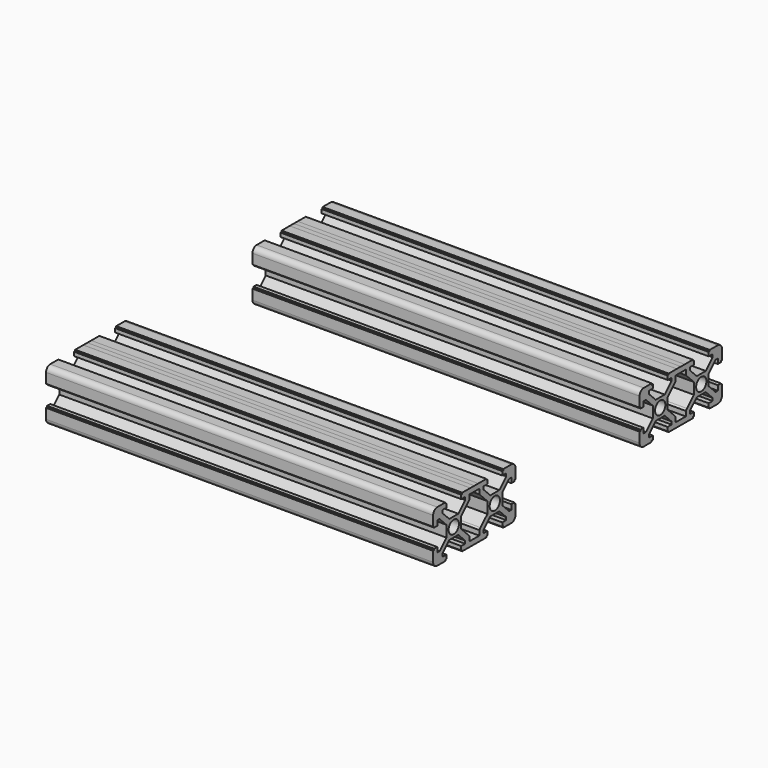
from build123d import *

# Parameters (mm, degrees)
F0_R     = 2.5
F1_DEPTH = 150


with BuildPart() as f1:
    # F0 (on Right) → F1 (new body)
    with BuildSketch(Plane.YZ):
        with BuildLine():
            ThreePointArc((9.657748, 7.399302), (9.074688, 8.818477), (7.657762, 9.406981))
            Line((7.657762, 9.406981), (3.748178, 9.406981))
            Line((3.748178, 9.406981), (3.748178, 8.906981))
            Line((3.748178, 8.906981), (3.248178, 8.906981))
            Line((3.248178, 8.906981), (3.248178, 7.406981))
            Line((3.248178, 7.406981), (5.148178, 7.406981))
            Line((5.148178, 7.406981), (5.148178, 6.321194))
            Line((5.148178, 6.321194), (1.833965, 3.006981))
            Line((1.833965, 3.006981), (-0.351822, 3.006981))
            Line((-0.351822, 3.006981), (-2.537608, 3.006981))
            Line((-2.537608, 3.006981), (-5.851822, 6.321194))
            Line((-5.851822, 6.321194), (-5.851822, 7.406981))
            Line((-5.851822, 7.406981), (-3.951822, 7.406981))
            Line((-3.951822, 7.406981), (-3.951822, 8.906981))
            Line((-3.951822, 8.906981), (-4.451822, 8.906981))
            Line((-4.451822, 8.906981), (-4.451822, 9.406981))
            Line((-4.451822, 9.406981), (-8.351822, 9.406981))
            Line((-8.351822, 9.406981), (-10.239197, 9.419102))
            Line((-10.239197, 9.419102), (-12.203925, 9.43172))
            Line((-12.203925, 9.43172), (-12.229612, 9.431885))
            Line((-12.229612, 9.431885), (-12.739197, 9.431885))
            Line((-12.739197, 9.431885), (-16.139197, 9.431885))
            Line((-16.139197, 9.431885), (-16.139197, 8.931885))
            Line((-16.139197, 8.931885), (-16.639197, 8.931885))
            Line((-16.639197, 8.931885), (-16.639197, 7.431885))
            Line((-16.639197, 7.431885), (-14.739197, 7.431885))
            Line((-14.739197, 7.431885), (-14.739197, 6.346098))
            Line((-14.739197, 6.346098), (-16.639197, 4.446098))
            Line((-16.639197, 4.446098), (-18.05341, 3.031885))
            Line((-18.05341, 3.031885), (-22.424983, 3.031885))
            Line((-22.424983, 3.031885), (-23.839197, 4.446098))
            Line((-23.839197, 4.446098), (-25.739197, 6.346098))
            Line((-25.739197, 6.346098), (-25.739197, 7.431885))
            Line((-25.739197, 7.431885), (-23.839197, 7.431885))
            Line((-23.839197, 7.431885), (-23.839197, 8.931885))
            Line((-23.839197, 8.931885), (-24.339197, 8.931885))
            Line((-24.339197, 8.931885), (-24.339197, 9.431885))
            Line((-24.339197, 9.431885), (-28.239197, 9.431885))
            ThreePointArc((-28.239197, 9.431885), (-29.65341, 8.846098), (-30.239197, 7.431885))
            Line((-30.239197, 7.431885), (-30.239197, 3.531885))
            Line((-30.239197, 3.531885), (-29.739197, 3.531885))
            Line((-29.739197, 3.531885), (-29.739197, 3.031885))
            Line((-29.739197, 3.031885), (-28.239197, 3.031885))
            Line((-28.239197, 3.031885), (-28.239197, 4.931885))
            Line((-28.239197, 4.931885), (-27.15341, 4.931885))
            Line((-27.15341, 4.931885), (-23.839197, 1.617671))
            Line((-23.839197, 1.617671), (-23.839197, -2.753902))
            Line((-23.839197, -2.753902), (-27.15341, -6.068115))
            Line((-27.15341, -6.068115), (-28.239197, -6.068115))
            Line((-28.239197, -6.068115), (-28.239197, -4.168115))
            Line((-28.239197, -4.168115), (-29.739197, -4.168115))
            Line((-29.739197, -4.168115), (-29.739197, -4.668115))
            Line((-29.739197, -4.668115), (-30.239197, -4.668115))
            Line((-30.239197, -4.668115), (-30.239197, -8.568115))
            ThreePointArc((-30.239197, -8.568115), (-30.082264, -9.344712), (-29.636094, -9.999436))
            ThreePointArc((-29.636094, -9.999436), (-28.993305, -10.420498), (-28.239197, -10.568115))
            Line((-28.239197, -10.568115), (-24.339197, -10.568115))
            Line((-24.339197, -10.568115), (-24.339197, -10.068115))
            Line((-24.339197, -10.068115), (-23.839197, -10.068115))
            Line((-23.839197, -10.068115), (-23.839197, -8.568115))
            Line((-23.839197, -8.568115), (-25.739197, -8.568115))
            Line((-25.739197, -8.568115), (-25.739197, -7.482329))
            Line((-25.739197, -7.482329), (-22.424983, -4.168115))
            Line((-22.424983, -4.168115), (-18.05341, -4.168115))
            Line((-18.05341, -4.168115), (-14.739197, -7.482329))
            Line((-14.739197, -7.482329), (-14.739197, -8.568115))
            Line((-14.739197, -8.568115), (-16.639197, -8.568115))
            Line((-16.639197, -8.568115), (-16.639197, -10.068115))
            Line((-16.639197, -10.068115), (-16.139197, -10.068115))
            Line((-16.139197, -10.068115), (-16.139197, -10.568115))
            Line((-16.139197, -10.568115), (-12.239197, -10.568115))
            Line((-12.239197, -10.568115), (-8.377446, -10.592855))
            Line((-8.377446, -10.592855), (-8.351822, -10.593019))
            Line((-8.351822, -10.593019), (-4.451822, -10.593019))
            Line((-4.451822, -10.593019), (-4.451822, -10.093019))
            Line((-4.451822, -10.093019), (-3.951822, -10.093019))
            Line((-3.951822, -10.093019), (-3.951822, -8.593019))
            Line((-3.951822, -8.593019), (-5.851822, -8.593019))
            Line((-5.851822, -8.593019), (-5.851822, -7.507233))
            Line((-5.851822, -7.507233), (-2.537608, -4.193019))
            Line((-2.537608, -4.193019), (-0.351822, -4.193019))
            Line((-0.351822, -4.193019), (1.833965, -4.193019))
            Line((1.833965, -4.193019), (5.148178, -7.507233))
            Line((5.148178, -7.507233), (5.148178, -8.593019))
            Line((5.148178, -8.593019), (3.248178, -8.593019))
            Line((3.248178, -8.593019), (3.248178, -10.093019))
            Line((3.248178, -10.093019), (3.748178, -10.093019))
            Line((3.748178, -10.093019), (3.748178, -10.593019))
            Line((3.748178, -10.593019), (7.648178, -10.593019))
            ThreePointArc((7.648178, -10.593019), (9.062392, -10.007233), (9.648178, -8.593019))
            Line((9.648178, -8.593019), (9.648178, -4.693019))
            Line((9.648178, -4.693019), (9.148178, -4.693019))
            Line((9.148178, -4.693019), (9.148178, -4.193019))
            Line((9.148178, -4.193019), (7.648178, -4.193019))
            Line((7.648178, -4.193019), (7.648178, -6.093019))
            Line((7.648178, -6.093019), (6.562392, -6.093019))
            Line((6.562392, -6.093019), (3.248178, -2.778806))
            Line((3.248178, -2.778806), (3.248178, -0.593019))
            Line((3.248178, -0.593019), (3.248178, 1.592767))
            Line((3.248178, 1.592767), (6.562392, 4.906981))
            Line((6.562392, 4.906981), (7.648178, 4.906981))
            Line((7.648178, 4.906981), (7.648178, 3.006981))
            Line((7.648178, 3.006981), (9.148178, 3.006981))
            Line((9.148178, 3.006981), (9.148178, 3.506981))
            Line((9.148178, 3.506981), (9.648178, 3.506981))
            Line((9.648178, 3.506981), (9.648178, 4.906981))
            Line((9.648178, 4.906981), (9.657748, 7.399302))
        make_face()
        Polygon((-3.951822, 1.592767), (-3.951822, -0.593019), (-3.951822, -2.778806), (-7.266035, -6.093019), (-7.851822, -6.694049), (-7.851822, -7.507233), (-7.851822, -8.593019), (-12.739197, -8.568115), (-12.739197, -7.482329), (-12.739197, -6.653902), (-13.324983, -6.068115), (-16.639197, -2.753902), (-16.639197, 1.617671), (-13.324983, 4.931885), (-12.739197, 5.517671), (-12.739197, 7.42628), (-7.851822, 7.406981), (-7.851822, 6.321194), (-7.851822, 5.492767), (-7.266035, 4.906981), align=None, mode=Mode.SUBTRACT)
        with Locations((-0.351822, -0.593019)):
            Circle(F0_R, mode=Mode.SUBTRACT)
        with Locations((-20.239197, -0.568115)):
            Circle(F0_R, mode=Mode.SUBTRACT)
    extrude(amount=F1_DEPTH)


with BuildPart() as f2_1:
    # F2: copy of F1
    add(f1.part.moved(Location((0, 100, 0))))


solid = Compound([f1.part, f2_1.part])
